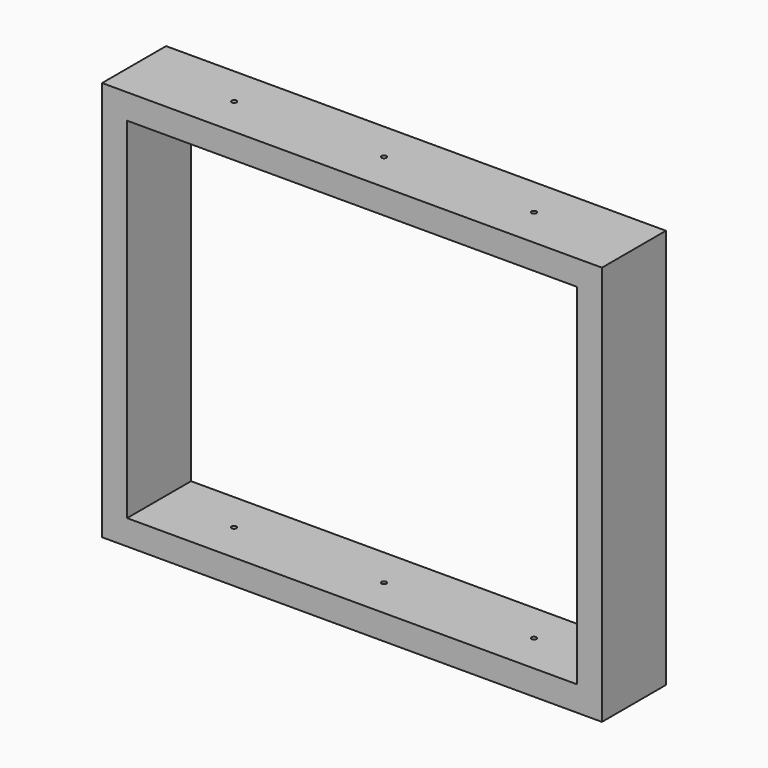
from build123d import *

# Parameters (mm, degrees)
F0_W     = 500
F0_H     = 400
F1_DEPTH = 80
F2_W     = 450
F2_H     = 350
F3_DEPTH = 80
F4_R     = 2.5
F5_DEPTH = 400.001


with BuildPart() as f1:
    # F0 (on Front) → F1 (new body)
    with BuildSketch(Plane.XZ):
        Rectangle(F0_W, F0_H)
    extrude(amount=F1_DEPTH)

    # F2 (on face) → F3 (cut, through all)
    with BuildSketch(Plane.XZ.offset(80)):
        Rectangle(F2_W, F2_H)
    extrude(amount=-F3_DEPTH, mode=Mode.SUBTRACT)

    # F4 (on face) → F5 (cut, through all)
    with BuildSketch(Plane.XY.offset(200)):
        with Locations((-150, -40)):
            Circle(F4_R)
        with Locations((0, -40)):
            Circle(F4_R)
        with Locations((150, -40)):
            Circle(F4_R)
    extrude(amount=-F5_DEPTH, mode=Mode.SUBTRACT)


solid = f1.part
